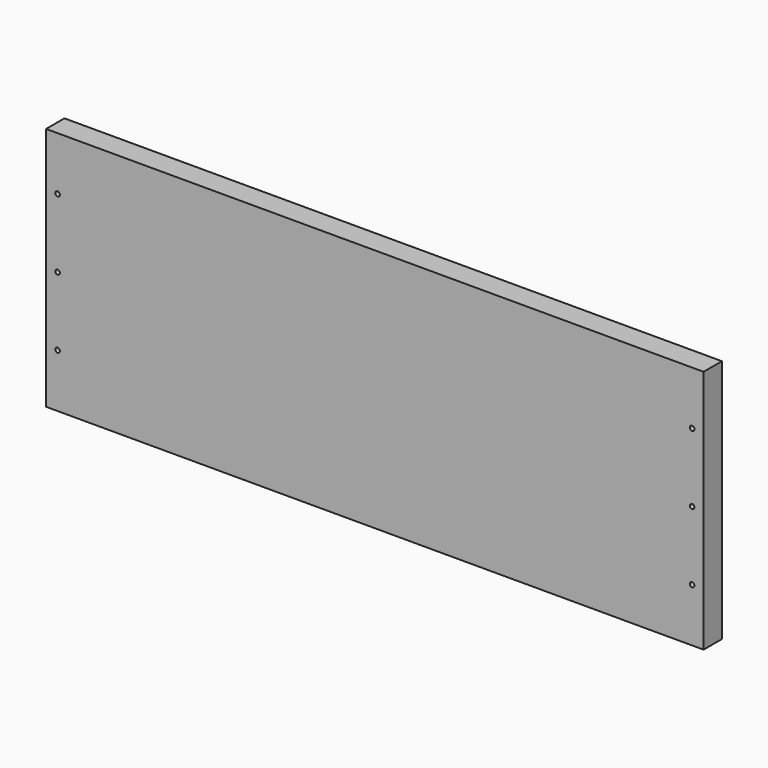
from build123d import *

# Parameters (mm, degrees)
F0_W     = 546.1
F0_H     = 203.2
F1_DEPTH = 19.05
F2_R     = 1.905
F3_DEPTH = 19.051


with BuildPart() as f1:
    # F0 (on Front) → F1 (new body)
    with BuildSketch(Plane.XZ):
        Rectangle(F0_W, F0_H)
    extrude(amount=F1_DEPTH)

    # F2 (on face) → F3 (cut, through all)
    with BuildSketch(Plane(origin=(0, 0, 0), x_dir=(-1, 0, 0), z_dir=(0, 1, 0))):
        with Locations((-263.525, 57.15)):
            Circle(F2_R)
        with Locations((-263.525, 0)):
            Circle(F2_R)
        with Locations((-263.525, -57.15)):
            Circle(F2_R)
        with Locations((263.525, 57.15)):
            Circle(F2_R)
        with Locations((263.525, -57.15)):
            Circle(F2_R)
        with Locations((263.525, 0)):
            Circle(F2_R)
    extrude(amount=-F3_DEPTH, mode=Mode.SUBTRACT)


solid = f1.part
